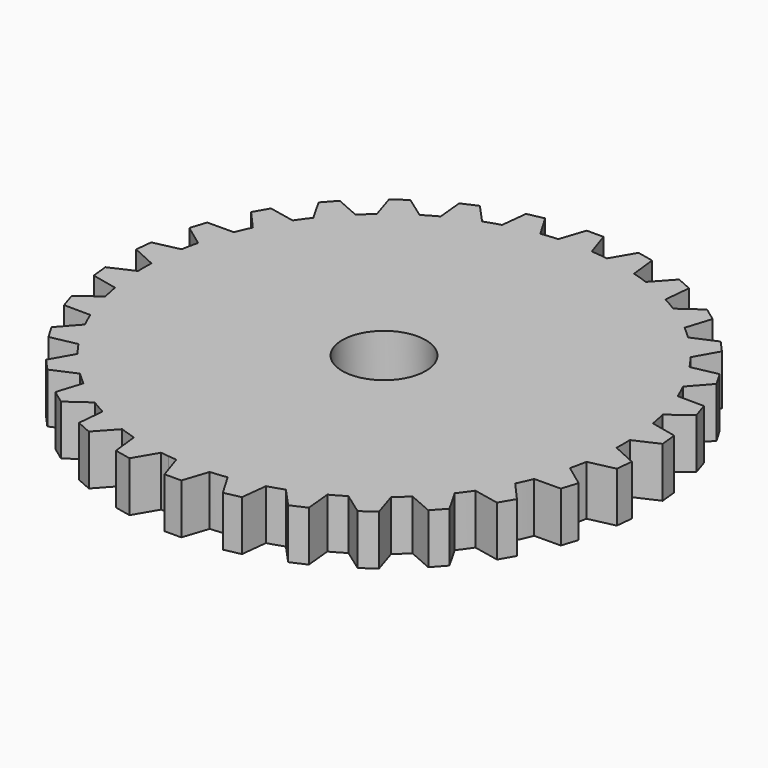
from build123d import *

# Parameters (mm, degrees)
F0_R     = 14.3239448783
F0_R_2   = 2.5
F2_DEPTH = 3
F3_DEPTH = 3
F4_COUNT = 30
F4_ANGLE = 348


with BuildPart() as f2:
    # F0 (on Top) → F2 (new body)
    with BuildSketch(Plane.XY):
        Circle(F0_R)
        Circle(F0_R_2, mode=Mode.SUBTRACT)
    extrude(amount=F2_DEPTH)

    # F1 (on face) → F3 (join)
    with BuildSketch(Plane.XY):
        with BuildLine():
            ThreePointArc((-1, 14.2889956566), (0, 14.3239448783), (1, 14.2889956566))
            Line((1, 14.2889956566), (0.5, 15.7889956566))
            Line((0.5, 15.7889956566), (-0.5, 15.7889956566))
            Line((-0.5, 15.7889956566), (-1, 14.2889956566))
        make_face()
    extrude(amount=F3_DEPTH)

    # F4: F2 ×30 about axis
    f4_axis = Axis((0, 0, 0), (0, 0, -1))


with BuildPart() as f2_1:
    add(f2.part)
    for i in range(1, F4_COUNT):
        add(f2.part.rotate(f4_axis, i * F4_ANGLE / (F4_COUNT - 1)))


solid = f2_1.part
